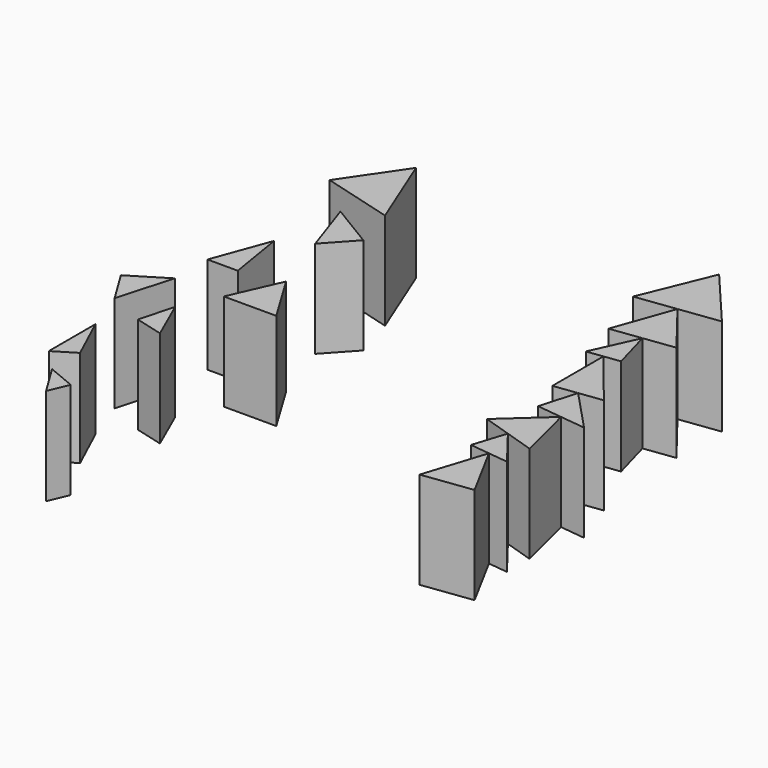
from build123d import *

# Parameters (mm, degrees)
F1_DEPTH = 25.4
F3_DEPTH = 25.4


with BuildPart() as f1:
    # F0 (on Top) → F1 (new body)
    with BuildSketch(Plane.XY):
        Polygon((-42.142671, 27.484352), (-50.387979, 47.944926), (-60.770955, 32.67584), align=None)
        Polygon((-38.783476, 16.18523), (-50.387979, 23.209009), (-45.501873, 8.856069), align=None)
        Polygon((-50.387979, -10.382977), (-52.831031, 4.580725), (-58.327902, -10.382977), align=None)
        Polygon((-31.759694, -21.071335), (-39.699618, -7.939924), (-45.501873, -21.071335), align=None)
        Polygon((-45.501873, -41.959443), (-50.387979, -30.843548), (-52.831031, -40.005002), align=None)
        Polygon((-62.453325, -35.588514), (-58.327902, -21.071335), (-67.794733, -26.873589), align=None)
        Polygon((-52.831031, -58.928815), (-58.327902, -47.02878), (-58.327902, -62.297866), align=None)
        Polygon((-45.501873, -71.153931), (-52.831031, -68.100117), (-47.717852, -76.44267), align=None)
    extrude(amount=F1_DEPTH)


with BuildPart() as f3:
    # F2 (on Top) → F3 (new body)
    with BuildSketch(Plane.XY):
        Polygon((40.921144, 33.897366), (27.484352, 49.777217), (19.849809, 31.148933), (30.385477, 32.52315), align=None)
        Polygon((48.038229, -55.943654), (40.202837, -41.430655), (35.00862, -57.643167), align=None)
        Polygon((45.397054, -42.032883), (37.772481, -32.201695), (35.00862, -40.828428), (40.202837, -41.430655), align=None)
        Polygon((45.397054, -34.644481), (41.645674, -19.638967), (30.385477, -29.835023), (37.772481, -32.201695), align=None)
        Polygon((48.282728, -20.408479), (37.772481, -9.223913), (35.00862, -18.869454), (41.645674, -19.638967), align=None)
        Polygon((43.876174, -8.42778), (31.668788, 6.685535), (31.668788, -10.020046), (37.772481, -9.223913), align=None)
        Polygon((35.853224, 7.231331), (32.866855, 17.963489), (27.484352, 6.139739), (31.668788, 6.685535), align=None)
        Polygon((40.921144, 19.014047), (30.385477, 32.52315), (24.812566, 16.91293), (32.866855, 17.963489), align=None)
    extrude(amount=F3_DEPTH)


solid = Compound([f1.part, f3.part])
